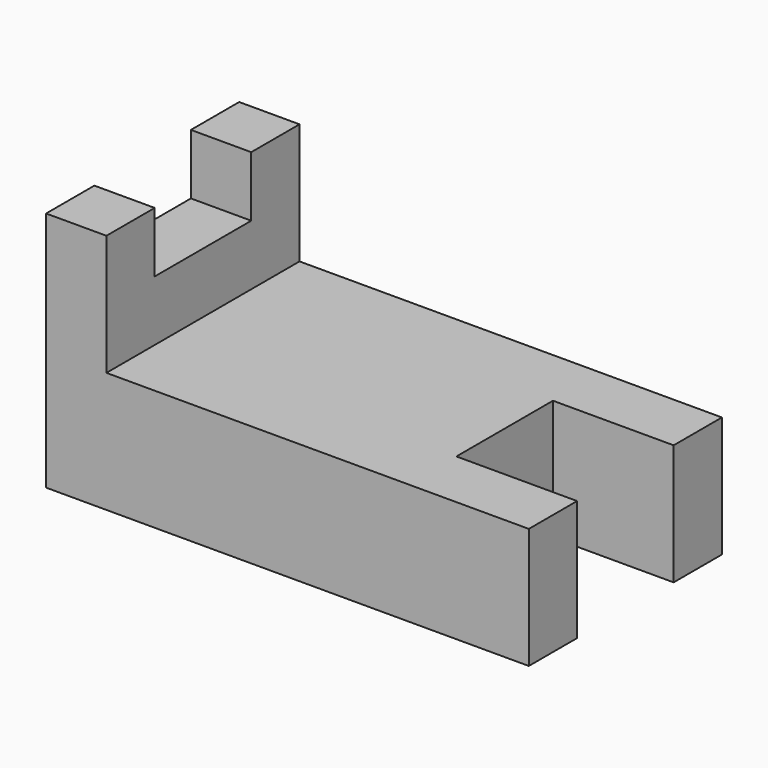
from build123d import *

# Parameters (mm, degrees)
F1_DEPTH = 12.7
F2_W     = 6.35
F2_H     = 12.7
F3_DEPTH = 6.35
F4_W     = 12.7
F4_H     = 12.7
F5_DEPTH = 12.701


with BuildPart() as f1:
    # F0 (on Front) → F1 (new body, symmetric)
    with BuildSketch(Plane.XZ):
        Polygon((0, 25.4), (0, 0), (50.8, 0), (50.8, 12.7), (6.35, 12.7), (6.35, 25.4), align=None)
    extrude(amount=F1_DEPTH, both=True)

    # F2 (on face) → F3 (cut)
    with BuildSketch(Plane.XY.offset(25.4)):
        with Locations((3.175, 0)):
            Rectangle(F2_W, F2_H)
    extrude(amount=-F3_DEPTH, mode=Mode.SUBTRACT)

    # F4 (on face) → F5 (cut, through all)
    with BuildSketch(Plane.XY.offset(12.7)):
        with Locations((44.45, 0)):
            Rectangle(F4_W, F4_H)
    extrude(amount=-F5_DEPTH, mode=Mode.SUBTRACT)


solid = f1.part
